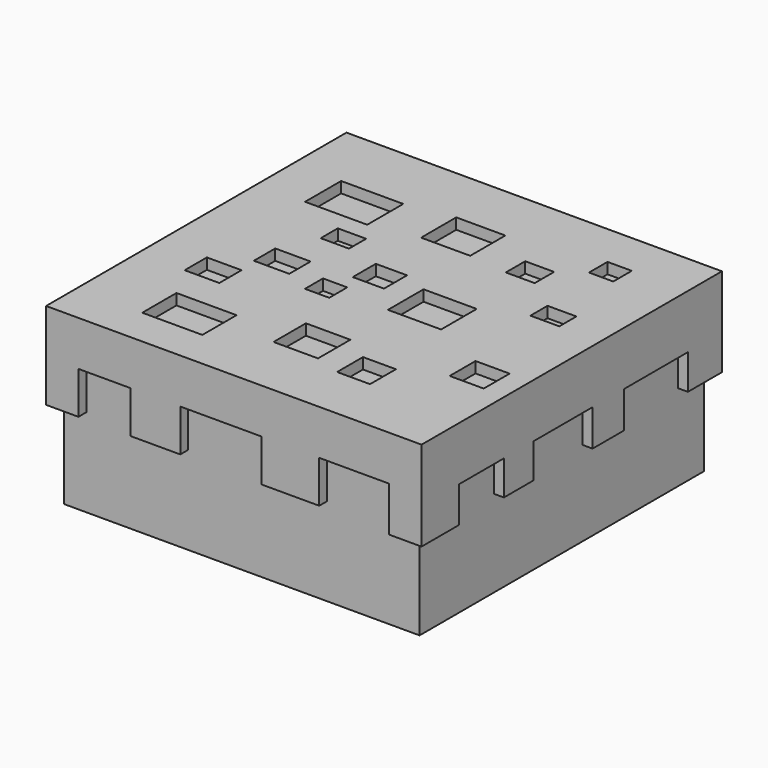
from build123d import *

# Parameters (mm, degrees)
F0_W      = 82.55
F0_H      = 82.55
F1_DEPTH  = 38.1
F2_W      = 82.55
F2_H      = 82.55
F2_W_2    = 13.9428069815
F2_H_2    = 9.9208420143
F2_W_3    = 8.0439243466
F2_H_3    = 6.4351418987
F2_W_4    = 8.2115095574
F2_H_4    = 6.1912699603
F2_W_5    = 5.6307478808
F2_H_5    = 5.2285513375
F2_W_6    = 10.3230390232
F2_H_6    = 9.3845799565
F2_W_7    = 7.6417308301
F2_H_7    = 7.5076650828
F2_W_8    = 12.3340208083
F2_H_8    = 10.3230387904
F2_W_9    = 7.9098585993
F2_H_9    = 7.5076660141
F2_W_10   = 7.2456169873
F2_H_10   = 6.6790115088
F2_W_11   = 6.5692057833
F2_H_11   = 4.9604205415
F2_W_12   = 14.4120394252
F2_H_12   = 10.4571059346
F2_W_13   = 11.3955624402
F2_H_13   = 10.1889744401
F2_W_14   = 6.7032724619
F2_H_14   = 5.6307483464
F2_W_15   = 5.6307520717
F2_H_15   = 5.3626168519
F3_DEPTH  = 2.54
F4_W      = 82.55
F4_H      = 12.5048903072
F5_DEPTH  = 2.286
F6_W      = 8.554907316
F6_H      = 8.3226170391
F7_DEPTH  = 2.286
F8_W      = 8.5991304368
F8_H      = 7.9995281994
F9_DEPTH  = 2.286
F10_W     = 9.0507952429
F10_H     = 8.4728021175
F11_DEPTH = 2.286
F12_W     = 7.5796225905
F12_H     = 8.1127006561
F13_DEPTH = 2.286
F14_W     = 84.836
F14_H     = 12.5993990594
F15_DEPTH = 2.286
F16_W     = 5.275822799
F16_H     = 8.0181919038
F17_DEPTH = 2.286
F18_W     = 2.1420419216
F18_H     = 8.0181919038
F19_DEPTH = 2.286
F20_W     = 9.7789997235
F20_H     = 7.7714007348
F21_DEPTH = 2.286
F22_W     = 8.092913311
F22_H     = 7.8396778554
F23_DEPTH = 2.286
F24_W     = 7.9482773185
F24_H     = 8.0201905221
F25_DEPTH = 2.286
F26_W     = 84.836
F26_H     = 12.4227774584
F27_DEPTH = 2.286
F28_W     = 5.6573223279
F28_H     = 8.1968121231
F29_DEPTH = 2.286
F30_W     = 2.7038902044
F30_H     = 8.1968121231
F31_DEPTH = 2.286
F32_W     = 11.1818928272
F32_H     = 7.734913379
F33_DEPTH = 2.286
F34_W     = 11.2993712537
F34_H     = 7.8291036189
F35_DEPTH = 2.286
F36_W     = 7.6127404213
F36_H     = 7.734913379
F37_DEPTH = 2.286
F38_W     = 87.122
F38_H     = 10.4137536731
F39_DEPTH = 2.286
F40_W     = 4.9288716123
F40_H     = 9.7913470712
F40_W_2   = 2.5759153068
F41_DEPTH = 2.286
F42_W     = 11.5772541612
F42_H     = 9.7913470712
F43_DEPTH = 2.286
F44_W     = 13.4015749209
F44_H     = 9.7913470712
F45_DEPTH = 2.286
F46_W     = 7.5191628144
F46_H     = 10.4137536731
F47_DEPTH = 2.286
F48_SCALE = 1.5


with BuildPart() as f1:
    # F0 (on Top) → F1 (new body)
    with BuildSketch(Plane.XY):
        Rectangle(F0_W, F0_H)
    extrude(amount=F1_DEPTH)

    # F2 (on face) → F3 (join)
    with BuildSketch(Plane.XY.offset(38.1)):
        Rectangle(F2_W, F2_H)
        with Locations((-21.3224873878, -29.7867883928)):
            Rectangle(F2_W_2, F2_H_2, mode=Mode.SUBTRACT)
        with Locations((-28.6960853264, -13.6989350431)):
            Rectangle(F2_W_3, F2_H_3, mode=Mode.SUBTRACT)
        with Locations((-21.1381489644, -3.0956349801)):
            Rectangle(F2_W_4, F2_H_4, mode=Mode.SUBTRACT)
        with Locations((-8.3181404043, -6.3923679991)):
            Rectangle(F2_W_5, F2_H_5, mode=Mode.SUBTRACT)
        with Locations((2.6081927354, -24.1560377181)):
            Rectangle(F2_W_6, F2_H_6, mode=Mode.SUBTRACT)
        with Locations((17.6235223189, -27.1054795012)):
            Rectangle(F2_W_7, F2_H_7, mode=Mode.SUBTRACT)
        with Locations((11.9257410988, -0.8956852835)):
            Rectangle(F2_W_8, F2_H_8, mode=Mode.SUBTRACT)
        with Locations((34.6498331055, -15.5758508481)):
            Rectangle(F2_W_9, F2_H_9, mode=Mode.SUBTRACT)
        with Locations((-3.6228084937, 3.3395057544)):
            Rectangle(F2_W_10, F2_H_10, mode=Mode.SUBTRACT)
        with Locations((-18.0378840305, 10.7680070214)):
            Rectangle(F2_W_11, F2_H_11, mode=Mode.SUBTRACT)
        with Locations((-25.2439037431, 22.9009296745)):
            Rectangle(F2_W_12, F2_H_12, mode=Mode.SUBTRACT)
        with Locations((-1.5478357673, 24.9119121581)):
            Rectangle(F2_W_13, F2_H_13, mode=Mode.SUBTRACT)
        with Locations((30.6949019432, 10.7680070214)):
            Rectangle(F2_W_14, F2_H_11, mode=Mode.SUBTRACT)
        with Locations((16.6180301458, 21.5602749959)):
            Rectangle(F2_W_14, F2_H_14, mode=Mode.SUBTRACT)
        with Locations((27.87952777, 30.8107910678)):
            Rectangle(F2_W_15, F2_H_15, mode=Mode.SUBTRACT)
    extrude(amount=F3_DEPTH)

    # F4 (on face) → F5 (join)
    with BuildSketch(Plane.YZ.offset(41.275)):
        with Locations((0, 34.3875548464)):
            Rectangle(F4_W, F4_H)
    extrude(amount=F5_DEPTH)

    # F6 (on face) → F7 (join)
    with BuildSketch(Plane.YZ.offset(41.275)):
        with Locations((-36.997546342, 23.9738011733)):
            Rectangle(F6_W, F6_H)
    extrude(amount=F7_DEPTH)

    # F8 (on face) → F9 (join)
    with BuildSketch(Plane.YZ.offset(41.275)):
        with Locations((-15.3713310137, 24.1353455931)):
            Rectangle(F8_W, F8_H)
    extrude(amount=F9_DEPTH)

    # F10 (on face) → F11 (join)
    with BuildSketch(Plane.YZ.offset(41.275)):
        with Locations((10.5762194809, 23.8987086341)):
            Rectangle(F10_W, F10_H)
    extrude(amount=F11_DEPTH)

    # F12 (on face) → F13 (join)
    with BuildSketch(Plane.YZ.offset(41.275)):
        with Locations((37.4851887047, 24.0787593648)):
            Rectangle(F12_W, F12_H)
    extrude(amount=F13_DEPTH)

    # F14 (on face) → F15 (join)
    with BuildSketch(Plane(origin=(0, 41.275, 0), x_dir=(-1, 0, 0), z_dir=(0, 1, 0))):
        with Locations((-1.143, 34.3403004703)):
            Rectangle(F14_W, F14_H)
    extrude(amount=F15_DEPTH)

    # F16 (on face) → F17 (join)
    with BuildSketch(Plane(origin=(0, 41.275, 0), x_dir=(-1, 0, 0), z_dir=(0, 1, 0))):
        with Locations((-40.9230886005, 24.0315049887)):
            Rectangle(F16_W, F16_H)
    extrude(amount=F17_DEPTH)

    # F18 (on face) → F19 (join)
    with BuildSketch(Plane(origin=(0, 41.275, 0), x_dir=(-1, 0, 0), z_dir=(0, 1, 0))):
        with Locations((-37.2141562402, 24.0315049887)):
            Rectangle(F18_W, F18_H)
    extrude(amount=F19_DEPTH)

    # F20 (on face) → F21 (join)
    with BuildSketch(Plane(origin=(0, 41.275, 0), x_dir=(-1, 0, 0), z_dir=(0, 1, 0))):
        with Locations((-16.2686998956, 24.1549005732)):
            Rectangle(F20_W, F20_H)
    extrude(amount=F21_DEPTH)

    # F22 (on face) → F23 (join)
    with BuildSketch(Plane(origin=(0, 41.275, 0), x_dir=(-1, 0, 0), z_dir=(0, 1, 0))):
        with Locations((11.0376609955, 24.1207620129)):
            Rectangle(F22_W, F22_H)
    extrude(amount=F23_DEPTH)

    # F24 (on face) → F25 (join)
    with BuildSketch(Plane(origin=(0, 41.275, 0), x_dir=(-1, 0, 0), z_dir=(0, 1, 0))):
        with Locations((37.3008613408, 24.0305056795)):
            Rectangle(F24_W, F24_H)
    extrude(amount=F25_DEPTH)

    # F26 (on face) → F27 (join)
    with BuildSketch(Plane(origin=(-41.275, 0, 0), x_dir=(0, -1, 0), z_dir=(-1, 0, 0))):
        with Locations((-1.143, 34.4286112708)):
            Rectangle(F26_W, F26_H)
    extrude(amount=F27_DEPTH)

    # F28 (on face) → F29 (join)
    with BuildSketch(Plane(origin=(-41.275, 0, 0), x_dir=(0, -1, 0), z_dir=(-1, 0, 0))):
        with Locations((-40.7323388361, 24.11881648)):
            Rectangle(F28_W, F28_H)
    extrude(amount=F29_DEPTH)

    # F30 (on face) → F31 (join)
    with BuildSketch(Plane(origin=(-41.275, 0, 0), x_dir=(0, -1, 0), z_dir=(-1, 0, 0))):
        with Locations((-36.5517325699, 24.11881648)):
            Rectangle(F30_W, F30_H)
    extrude(amount=F31_DEPTH)

    # F32 (on face) → F33 (join)
    with BuildSketch(Plane(origin=(-41.275, 0, 0), x_dir=(0, -1, 0), z_dir=(-1, 0, 0))):
        with Locations((-16.6591824964, 24.3497658521)):
            Rectangle(F32_W, F32_H)
    extrude(amount=F33_DEPTH)

    # F34 (on face) → F35 (join)
    with BuildSketch(Plane(origin=(-41.275, 0, 0), x_dir=(0, -1, 0), z_dir=(-1, 0, 0))):
        with Locations((10.0554807577, 24.3026707321)):
            Rectangle(F34_W, F34_H)
    extrude(amount=F35_DEPTH)

    # F36 (on face) → F37 (join)
    with BuildSketch(Plane(origin=(-41.275, 0, 0), x_dir=(0, -1, 0), z_dir=(-1, 0, 0))):
        with Locations((37.4686297894, 24.3497658521)):
            Rectangle(F36_W, F36_H)
    extrude(amount=F37_DEPTH)

    # F38 (on face) → F39 (join)
    with BuildSketch(Plane.XZ.offset(41.275)):
        with Locations((0, 35.4331231634)):
            Rectangle(F38_W, F38_H)
    extrude(amount=F39_DEPTH)

    # F40 (on face) → F41 (join)
    with BuildSketch(Plane.XZ.offset(41.275)):
        with Locations((-41.0965641938, 25.3305727912)):
            Rectangle(F40_W, F40_H)
        with Locations((-37.3441707343, 25.3305727912)):
            Rectangle(F40_W_2, F40_H)
    extrude(amount=F41_DEPTH)

    # F42 (on face) → F43 (join)
    with BuildSketch(Plane.XZ.offset(41.275)):
        with Locations((-18.2089535519, 25.3305727912)):
            Rectangle(F42_W, F42_H)
    extrude(amount=F43_DEPTH)

    # F44 (on face) → F45 (join)
    with BuildSketch(Plane.XZ.offset(41.275)):
        with Locations((13.1122844759, 25.3305727912)):
            Rectangle(F44_W, F44_H)
    extrude(amount=F45_DEPTH)

    # F46 (on face) → F47 (join)
    with BuildSketch(Plane.XZ.offset(41.275)):
        with Locations((39.8014185928, 25.0193694903)):
            Rectangle(F46_W, F46_H)
    extrude(amount=F47_DEPTH)


with BuildPart() as f1_1:
    # F48: moved
    add(f1.part.scale(F48_SCALE))


solid = f1_1.part
